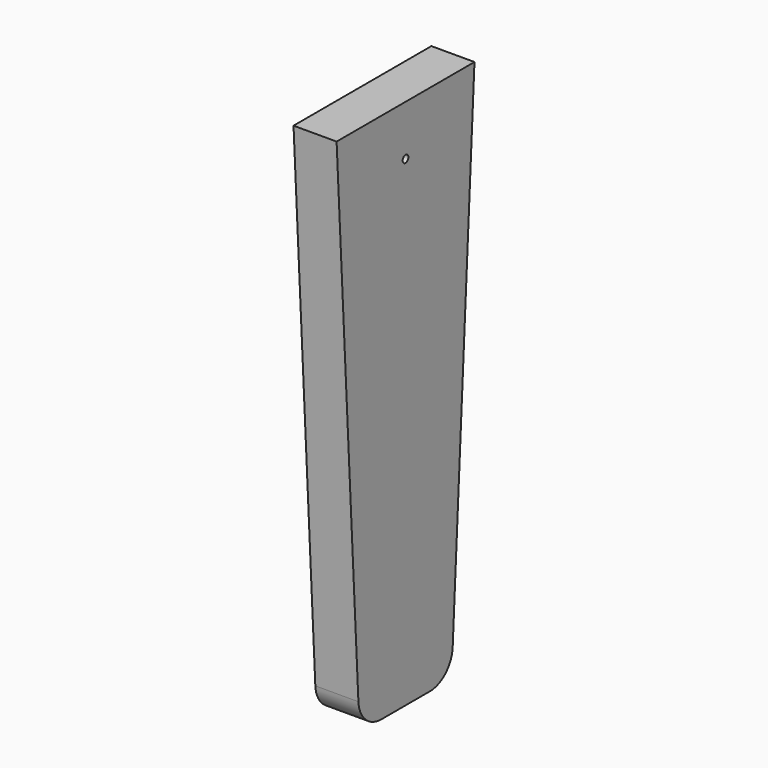
from build123d import *

# Parameters (mm, degrees)
F0_R     = 1.5875
F1_DEPTH = 19.05


with BuildPart() as f1:
    # F0 (on Right) → F1 (new body)
    with BuildSketch(Plane.YZ):
        with BuildLine():
            ThreePointArc((-42.08502, -102.493227), (-38.138072, -111.027168), (-29.403534, -114.507741))
            Line((-29.403534, -114.507741), (-2.667641, -114.507741))
            ThreePointArc((-2.667641, -114.507741), (6.066898, -111.027168), (10.013846, -102.493227))
            Line((10.013846, -102.493227), (22.064413, 120.442259))
            Line((22.064413, 120.442259), (-54.135587, 120.442259))
            Line((-54.135587, 120.442259), (-42.08502, -102.493227))
        make_face()
        with Locations((-16.035587, 98.217259)):
            Circle(F0_R, mode=Mode.SUBTRACT)
    extrude(amount=F1_DEPTH)


solid = f1.part
